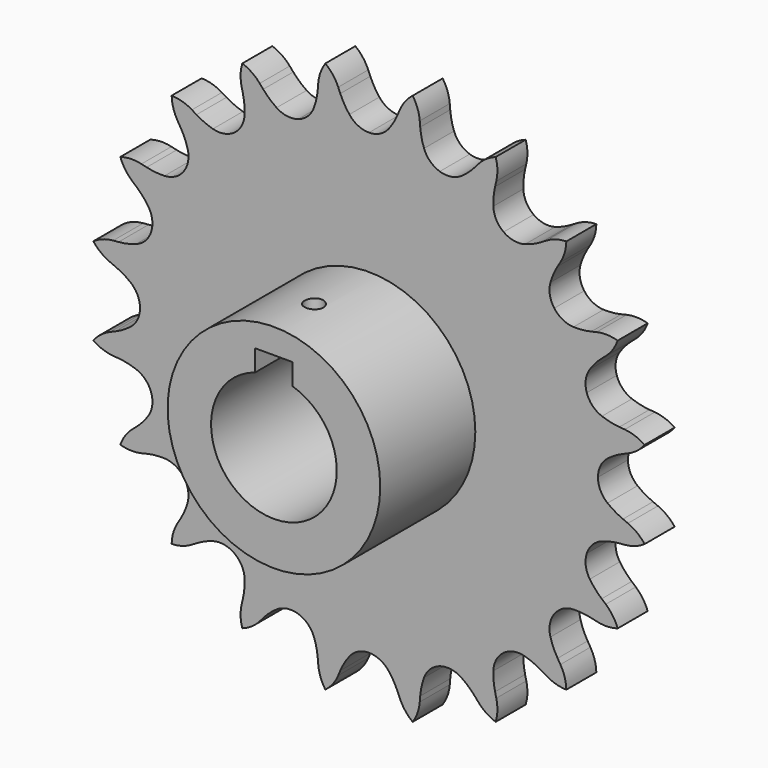
from build123d import *

# Parameters (mm, degrees)
F1_DEPTH = 6
F2_R     = 17
F3_DEPTH = 25
F4_R     = 10.05
F5_DEPTH = 74.8
F6_W     = 6
F6_H     = 13
F7_DEPTH = 25
F9_DEPTH = 25


with BuildPart() as f1:
    # F0 (on Front) → F1 (new body)
    with BuildSketch(Plane.XZ):
        with BuildLine():
            ThreePointArc((0, 36.6108), (-1.745287, 37.013731), (-3.137307, 38.140967))
            ThreePointArc((-3.137307, 38.140967), (-3.943228, 39.326843), (-4.585229, 40.608889))
            Line((-4.585229, 40.608889), (-4.91847, 41.40164))
            ThreePointArc((-4.91847, 41.40164), (-5.774975, 42.870794), (-6.980106, 44.070658))
            ThreePointArc((-6.980106, 44.070658), (-7.755476, 42.557113), (-8.116067, 40.89519))
            Line((-8.116067, 40.89519), (-8.188025, 40.038263))
            ThreePointArc((-8.188025, 40.038263), (-8.40243, 38.620574), (-8.802451, 37.243696))
            ThreePointArc((-8.802451, 37.243696), (-9.778005, 35.741474), (-11.313359, 34.81894))
            ThreePointArc((-11.313359, 34.81894), (-13.097739, 34.662827), (-14.769963, 35.304734))
            ThreePointArc((-14.769963, 35.304734), (-15.902895, 36.183526), (-16.909649, 37.204435))
            Line((-16.909649, 37.204435), (-17.471554, 37.855408))
            ThreePointArc((-17.471554, 37.855408), (-18.740132, 38.987983), (-20.257058, 39.756715))
            ThreePointArc((-20.257058, 39.756715), (-20.526767, 38.077646), (-20.356147, 36.385635))
            Line((-20.356147, 36.385635), (-20.159778, 35.548412))
            ThreePointArc((-20.159778, 35.548412), (-19.9256, 34.133855), (-19.880563, 32.700753))
            ThreePointArc((-19.880563, 32.700753), (-20.344158, 30.970592), (-21.519288, 29.618759))
            ThreePointArc((-21.519288, 29.618759), (-23.168092, 28.918884), (-24.956833, 29.012628))
            ThreePointArc((-24.956833, 29.012628), (-26.305876, 29.498313), (-27.578834, 30.158152))
            Line((-27.578834, 30.158152), (-28.314399, 30.603626))
            ThreePointArc((-28.314399, 30.603626), (-29.870873, 31.288756), (-31.551107, 31.551107))
            ThreePointArc((-31.551107, 31.551107), (-31.288756, 29.870873), (-30.603626, 28.314399))
            Line((-30.603626, 28.314399), (-30.158152, 27.578834))
            ThreePointArc((-30.158152, 27.578834), (-29.498313, 26.305876), (-29.012628, 24.956833))
            ThreePointArc((-29.012628, 24.956833), (-28.918884, 23.168092), (-29.618759, 21.519288))
            ThreePointArc((-29.618759, 21.519288), (-30.970592, 20.344158), (-32.700753, 19.880563))
            ThreePointArc((-32.700753, 19.880563), (-34.133855, 19.9256), (-35.548412, 20.159778))
            Line((-35.548412, 20.159778), (-36.385635, 20.356147))
            ThreePointArc((-36.385635, 20.356147), (-38.077646, 20.526767), (-39.756715, 20.257058))
            ThreePointArc((-39.756715, 20.257058), (-38.987983, 18.740132), (-37.855408, 17.471554))
            Line((-37.855408, 17.471554), (-37.204435, 16.909649))
            ThreePointArc((-37.204435, 16.909649), (-36.183526, 15.902895), (-35.304734, 14.769963))
            ThreePointArc((-35.304734, 14.769963), (-34.662827, 13.097739), (-34.81894, 11.313359))
            ThreePointArc((-34.81894, 11.313359), (-35.741474, 9.778005), (-37.243696, 8.802451))
            ThreePointArc((-37.243696, 8.802451), (-38.620574, 8.40243), (-40.038263, 8.188025))
            Line((-40.038263, 8.188025), (-40.89519, 8.116067))
            ThreePointArc((-40.89519, 8.116067), (-42.557113, 7.755476), (-44.070658, 6.980106))
            ThreePointArc((-44.070658, 6.980106), (-42.870794, 5.774975), (-41.40164, 4.91847))
            Line((-41.40164, 4.91847), (-40.608889, 4.585229))
            ThreePointArc((-40.608889, 4.585229), (-39.326843, 3.943228), (-38.140967, 3.137307))
            ThreePointArc((-38.140967, 3.137307), (-37.013731, 1.745287), (-36.6108, 0))
            ThreePointArc((-36.6108, 0), (-37.013731, -1.745287), (-38.140967, -3.137307))
            ThreePointArc((-38.140967, -3.137307), (-39.326843, -3.943228), (-40.608889, -4.585229))
            Line((-40.608889, -4.585229), (-41.40164, -4.91847))
            ThreePointArc((-41.40164, -4.91847), (-42.870794, -5.774975), (-44.070658, -6.980106))
            ThreePointArc((-44.070658, -6.980106), (-42.557113, -7.755476), (-40.89519, -8.116067))
            Line((-40.89519, -8.116067), (-40.038263, -8.188025))
            ThreePointArc((-40.038263, -8.188025), (-38.620574, -8.40243), (-37.243696, -8.802451))
            ThreePointArc((-37.243696, -8.802451), (-35.741474, -9.778005), (-34.81894, -11.313359))
            ThreePointArc((-34.81894, -11.313359), (-34.662827, -13.097739), (-35.304734, -14.769963))
            ThreePointArc((-35.304734, -14.769963), (-36.183526, -15.902895), (-37.204435, -16.909649))
            Line((-37.204435, -16.909649), (-37.855408, -17.471554))
            ThreePointArc((-37.855408, -17.471554), (-38.987983, -18.740132), (-39.756715, -20.257058))
            ThreePointArc((-39.756715, -20.257058), (-38.077646, -20.526767), (-36.385635, -20.356147))
            Line((-36.385635, -20.356147), (-35.548412, -20.159778))
            ThreePointArc((-35.548412, -20.159778), (-34.133855, -19.9256), (-32.700753, -19.880563))
            ThreePointArc((-32.700753, -19.880563), (-30.970592, -20.344158), (-29.618759, -21.519288))
            ThreePointArc((-29.618759, -21.519288), (-28.918884, -23.168092), (-29.012628, -24.956833))
            ThreePointArc((-29.012628, -24.956833), (-29.498313, -26.305876), (-30.158152, -27.578834))
            Line((-30.158152, -27.578834), (-30.603626, -28.314399))
            ThreePointArc((-30.603626, -28.314399), (-31.288756, -29.870873), (-31.551107, -31.551107))
            ThreePointArc((-31.551107, -31.551107), (-29.870873, -31.288756), (-28.314399, -30.603626))
            Line((-28.314399, -30.603626), (-27.578834, -30.158152))
            ThreePointArc((-27.578834, -30.158152), (-26.305876, -29.498313), (-24.956833, -29.012628))
            ThreePointArc((-24.956833, -29.012628), (-23.168092, -28.918884), (-21.519288, -29.618759))
            ThreePointArc((-21.519288, -29.618759), (-20.344158, -30.970592), (-19.880563, -32.700753))
            ThreePointArc((-19.880563, -32.700753), (-19.9256, -34.133855), (-20.159778, -35.548412))
            Line((-20.159778, -35.548412), (-20.356147, -36.385635))
            ThreePointArc((-20.356147, -36.385635), (-20.526767, -38.077646), (-20.257058, -39.756715))
            ThreePointArc((-20.257058, -39.756715), (-18.740132, -38.987983), (-17.471554, -37.855408))
            Line((-17.471554, -37.855408), (-16.909649, -37.204435))
            ThreePointArc((-16.909649, -37.204435), (-15.902895, -36.183526), (-14.769963, -35.304734))
            ThreePointArc((-14.769963, -35.304734), (-13.097739, -34.662827), (-11.313359, -34.81894))
            ThreePointArc((-11.313359, -34.81894), (-9.778005, -35.741474), (-8.802451, -37.243696))
            ThreePointArc((-8.802451, -37.243696), (-8.40243, -38.620574), (-8.188025, -40.038263))
            Line((-8.188025, -40.038263), (-8.116067, -40.89519))
            ThreePointArc((-8.116067, -40.89519), (-7.755476, -42.557113), (-6.980106, -44.070658))
            ThreePointArc((-6.980106, -44.070658), (-5.774975, -42.870794), (-4.91847, -41.40164))
            Line((-4.91847, -41.40164), (-4.585229, -40.608889))
            ThreePointArc((-4.585229, -40.608889), (-3.943228, -39.326843), (-3.137307, -38.140967))
            ThreePointArc((-3.137307, -38.140967), (-1.745287, -37.013731), (0, -36.6108))
            ThreePointArc((0, -36.6108), (1.745287, -37.013731), (3.137307, -38.140967))
            ThreePointArc((3.137307, -38.140967), (3.943228, -39.326843), (4.585229, -40.608889))
            Line((4.585229, -40.608889), (4.91847, -41.40164))
            ThreePointArc((4.91847, -41.40164), (5.774975, -42.870794), (6.980106, -44.070658))
            ThreePointArc((6.980106, -44.070658), (7.755476, -42.557113), (8.116067, -40.89519))
            Line((8.116067, -40.89519), (8.188025, -40.038263))
            ThreePointArc((8.188025, -40.038263), (8.40243, -38.620574), (8.802451, -37.243696))
            ThreePointArc((8.802451, -37.243696), (9.778005, -35.741474), (11.313359, -34.81894))
            ThreePointArc((11.313359, -34.81894), (13.097739, -34.662827), (14.769963, -35.304734))
            ThreePointArc((14.769963, -35.304734), (15.902895, -36.183526), (16.909649, -37.204435))
            Line((16.909649, -37.204435), (17.471554, -37.855408))
            ThreePointArc((17.471554, -37.855408), (18.740132, -38.987983), (20.257058, -39.756715))
            ThreePointArc((20.257058, -39.756715), (20.526767, -38.077646), (20.356147, -36.385635))
            Line((20.356147, -36.385635), (20.159778, -35.548412))
            ThreePointArc((20.159778, -35.548412), (19.9256, -34.133855), (19.880563, -32.700753))
            ThreePointArc((19.880563, -32.700753), (20.344158, -30.970592), (21.519288, -29.618759))
            ThreePointArc((21.519288, -29.618759), (23.168092, -28.918884), (24.956833, -29.012628))
            ThreePointArc((24.956833, -29.012628), (26.305876, -29.498313), (27.578834, -30.158152))
            Line((27.578834, -30.158152), (28.314399, -30.603626))
            ThreePointArc((28.314399, -30.603626), (29.870873, -31.288756), (31.551107, -31.551107))
            ThreePointArc((31.551107, -31.551107), (31.288756, -29.870873), (30.603626, -28.314399))
            Line((30.603626, -28.314399), (30.158152, -27.578834))
            ThreePointArc((30.158152, -27.578834), (29.498313, -26.305876), (29.012628, -24.956833))
            ThreePointArc((29.012628, -24.956833), (28.918884, -23.168092), (29.618759, -21.519288))
            ThreePointArc((29.618759, -21.519288), (30.970592, -20.344158), (32.700753, -19.880563))
            ThreePointArc((32.700753, -19.880563), (34.133855, -19.9256), (35.548412, -20.159778))
            Line((35.548412, -20.159778), (36.385635, -20.356147))
            ThreePointArc((36.385635, -20.356147), (38.077646, -20.526767), (39.756715, -20.257058))
            ThreePointArc((39.756715, -20.257058), (38.987983, -18.740132), (37.855408, -17.471554))
            Line((37.855408, -17.471554), (37.204435, -16.909649))
            ThreePointArc((37.204435, -16.909649), (36.183526, -15.902895), (35.304734, -14.769963))
            ThreePointArc((35.304734, -14.769963), (34.662827, -13.097739), (34.81894, -11.313359))
            ThreePointArc((34.81894, -11.313359), (35.741474, -9.778005), (37.243696, -8.802451))
            ThreePointArc((37.243696, -8.802451), (38.620574, -8.40243), (40.038263, -8.188025))
            Line((40.038263, -8.188025), (40.89519, -8.116067))
            ThreePointArc((40.89519, -8.116067), (42.557113, -7.755476), (44.070658, -6.980106))
            ThreePointArc((44.070658, -6.980106), (42.870794, -5.774975), (41.40164, -4.91847))
            Line((41.40164, -4.91847), (40.608889, -4.585229))
            ThreePointArc((40.608889, -4.585229), (39.326843, -3.943228), (38.140967, -3.137307))
            ThreePointArc((38.140967, -3.137307), (37.013731, -1.745287), (36.6108, 0))
            ThreePointArc((36.6108, 0), (37.013731, 1.745287), (38.140967, 3.137307))
            ThreePointArc((38.140967, 3.137307), (39.326843, 3.943228), (40.608889, 4.585229))
            Line((40.608889, 4.585229), (41.40164, 4.91847))
            ThreePointArc((41.40164, 4.91847), (42.870794, 5.774975), (44.070658, 6.980106))
            ThreePointArc((44.070658, 6.980106), (42.557113, 7.755476), (40.89519, 8.116067))
            Line((40.89519, 8.116067), (40.038263, 8.188025))
            ThreePointArc((40.038263, 8.188025), (38.620574, 8.40243), (37.243696, 8.802451))
            ThreePointArc((37.243696, 8.802451), (35.741474, 9.778005), (34.81894, 11.313359))
            ThreePointArc((34.81894, 11.313359), (34.662827, 13.097739), (35.304734, 14.769963))
            ThreePointArc((35.304734, 14.769963), (36.183526, 15.902895), (37.204435, 16.909649))
            Line((37.204435, 16.909649), (37.855408, 17.471554))
            ThreePointArc((37.855408, 17.471554), (38.987983, 18.740132), (39.756715, 20.257058))
            ThreePointArc((39.756715, 20.257058), (38.077646, 20.526767), (36.385635, 20.356147))
            Line((36.385635, 20.356147), (35.548412, 20.159778))
            ThreePointArc((35.548412, 20.159778), (34.133855, 19.9256), (32.700753, 19.880563))
            ThreePointArc((32.700753, 19.880563), (30.970592, 20.344158), (29.618759, 21.519288))
            ThreePointArc((29.618759, 21.519288), (28.918884, 23.168092), (29.012628, 24.956833))
            ThreePointArc((29.012628, 24.956833), (29.498313, 26.305876), (30.158152, 27.578834))
            Line((30.158152, 27.578834), (30.603626, 28.314399))
            ThreePointArc((30.603626, 28.314399), (31.288756, 29.870873), (31.551107, 31.551107))
            ThreePointArc((31.551107, 31.551107), (29.870873, 31.288756), (28.314399, 30.603626))
            Line((28.314399, 30.603626), (27.578834, 30.158152))
            ThreePointArc((27.578834, 30.158152), (26.305876, 29.498313), (24.956833, 29.012628))
            ThreePointArc((24.956833, 29.012628), (23.168092, 28.918884), (21.519288, 29.618759))
            ThreePointArc((21.519288, 29.618759), (20.344158, 30.970592), (19.880563, 32.700753))
            ThreePointArc((19.880563, 32.700753), (19.9256, 34.133855), (20.159778, 35.548412))
            Line((20.159778, 35.548412), (20.356147, 36.385635))
            ThreePointArc((20.356147, 36.385635), (20.526767, 38.077646), (20.257058, 39.756715))
            ThreePointArc((20.257058, 39.756715), (18.740132, 38.987983), (17.471554, 37.855408))
            Line((17.471554, 37.855408), (16.909649, 37.204435))
            ThreePointArc((16.909649, 37.204435), (15.902895, 36.183526), (14.769963, 35.304734))
            ThreePointArc((14.769963, 35.304734), (13.097739, 34.662827), (11.313359, 34.81894))
            ThreePointArc((11.313359, 34.81894), (9.778005, 35.741474), (8.802451, 37.243696))
            ThreePointArc((8.802451, 37.243696), (8.40243, 38.620574), (8.188025, 40.038263))
            Line((8.188025, 40.038263), (8.116067, 40.89519))
            ThreePointArc((8.116067, 40.89519), (7.755476, 42.557113), (6.980106, 44.070658))
            ThreePointArc((6.980106, 44.070658), (5.774975, 42.870794), (4.91847, 41.40164))
            Line((4.91847, 41.40164), (4.585229, 40.608889))
            ThreePointArc((4.585229, 40.608889), (3.943228, 39.326843), (3.137307, 38.140967))
            ThreePointArc((3.137307, 38.140967), (1.745287, 37.013731), (0, 36.6108))
        make_face()
    extrude(amount=F1_DEPTH)

    # F2 (on Front) → F3 (join)
    with BuildSketch(Plane.XZ):
        Circle(F2_R)
    extrude(amount=F3_DEPTH)

    # F4 (on Front) → F5 (cut)
    with BuildSketch(Plane.XZ):
        Circle(F4_R)
    extrude(amount=F5_DEPTH, mode=Mode.SUBTRACT)

    # F6 (on Front) → F7 (cut)
    with BuildSketch(Plane.XZ):
        with Locations((0, 6.5)):
            Rectangle(F6_W, F6_H)
    extrude(amount=F7_DEPTH, mode=Mode.SUBTRACT)

    # F8 (on Top) → F9 (cut)
    with BuildSketch(Plane.XY):
        with BuildLine():
            ThreePointArc((0, -18.5), (1.06066, -18.06066), (1.5, -17))
            ThreePointArc((1.5, -17), (-1.06066, -15.93934), (0, -18.5))
        make_face()
    extrude(amount=F9_DEPTH, mode=Mode.SUBTRACT)


solid = f1.part
